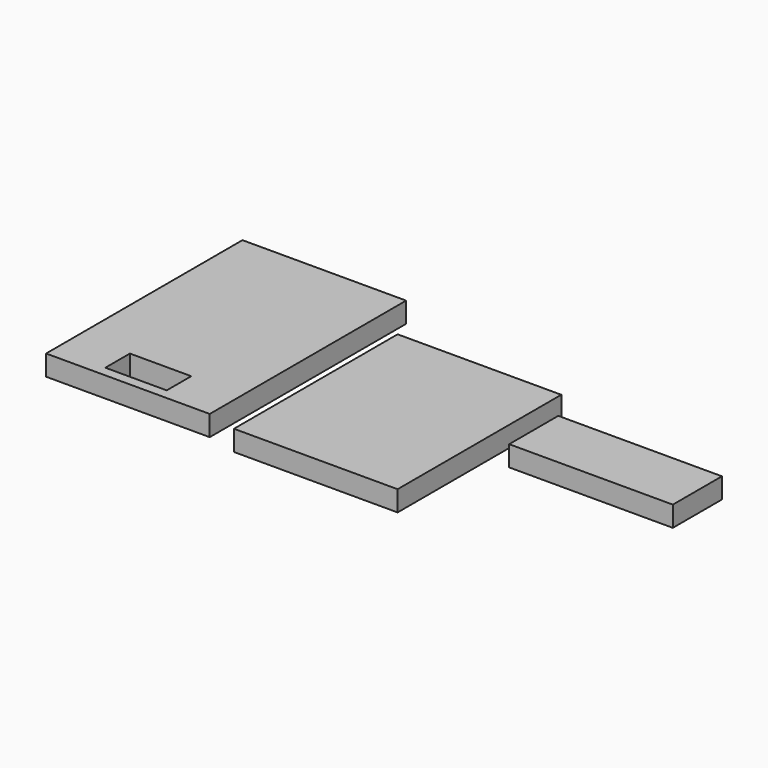
from build123d import *

# Parameters (mm, degrees)
F0_W     = 101.6
F0_H     = 152.4
F0_W_2   = 38.1
F0_H_2   = 19.05
F0_H_3   = 127
F0_H_4   = 38.1
F1_DEPTH = 12.7


with BuildPart() as f1:
    # F0 (on Top) → F1 (new body)
    with BuildSketch(Plane.XY):
        with Locations((-117.90407, 17.505405)):
            Rectangle(F0_W, F0_H)
        with Locations((-117.90407, -42.869586)):
            Rectangle(F0_W_2, F0_H_2, mode=Mode.SUBTRACT)
        with Locations((2.574325, 0)):
            Rectangle(F0_W, F0_H_3)
        with Locations((116.874328, 26.258108)):
            Rectangle(F0_W, F0_H_4)
    extrude(amount=F1_DEPTH)


solid = f1.part
